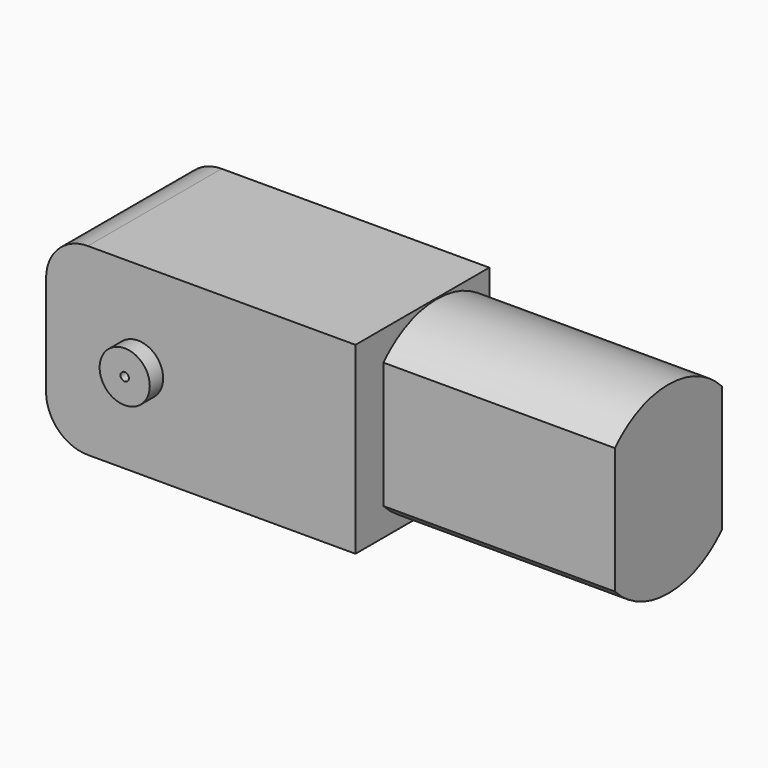
from build123d import *

# Parameters (mm, degrees)
F0_R     = 3
F1_DEPTH = 20
F0_R_2   = 0.5
F2_DEPTH = 22
F4_DEPTH = 9.68223
F5_DEPTH = 18


with BuildPart() as f1:
    # F0 (on Front) → F1 (new body)
    with BuildSketch(Plane.XZ):
        with BuildLine():
            Line((-9.820168, 11), (-41.820168, 11))
            ThreePointArc((-41.820168, 11), (-45.355701, 9.535534), (-46.820168, 6))
            Line((-46.820168, 6), (-46.820168, -6))
            ThreePointArc((-46.820168, -6), (-45.355701, -9.535534), (-41.820168, -11))
            Line((-41.820168, -11), (-9.820168, -11))
            Line((-9.820168, -11), (-9.820168, 11))
        make_face()
        with Locations((-35.820168, 0)):
            Circle(F0_R, mode=Mode.SUBTRACT)
    extrude(amount=F1_DEPTH)

    # F0 (on Front) → F2 (join)
    with BuildSketch(Plane.XZ):
        with Locations((-35.820168, 0)):
            Circle(F0_R)
        with Locations((-35.820168, 0)):
            Circle(F0_R_2, mode=Mode.SUBTRACT)
    extrude(amount=F2_DEPTH)


with BuildPart() as f4:
    # F3 (on Right) → F4 (new body)
    with BuildSketch(Plane.YZ):
        with BuildLine():
            ThreePointArc((0, 7.549834), (-8, 11), (-16, 7.549834))
            Line((-16, 7.549834), (-16, -7.549834))
            ThreePointArc((-16, -7.549834), (-8, -11), (0, -7.549834))
            Line((0, -7.549834), (0, 7.549834))
        make_face()
    extrude(amount=-F4_DEPTH)

    # F4_face (on face) → F5 (join)
    with BuildSketch(Plane(origin=(0, -8, 0), x_dir=(0, 1, 0), z_dir=(1, 0, 0))):
        with BuildLine():
            Line((8, -7.549834), (8, 7.549834))
            ThreePointArc((8, 7.549834), (0, 11), (-8, 7.549834))
            Line((-8, 7.549834), (-8, -7.549834))
            ThreePointArc((-8, -7.549834), (0, -11), (8, -7.549834))
        make_face()
    extrude(amount=F5_DEPTH)


solid = Compound([f1.part, f4.part])
